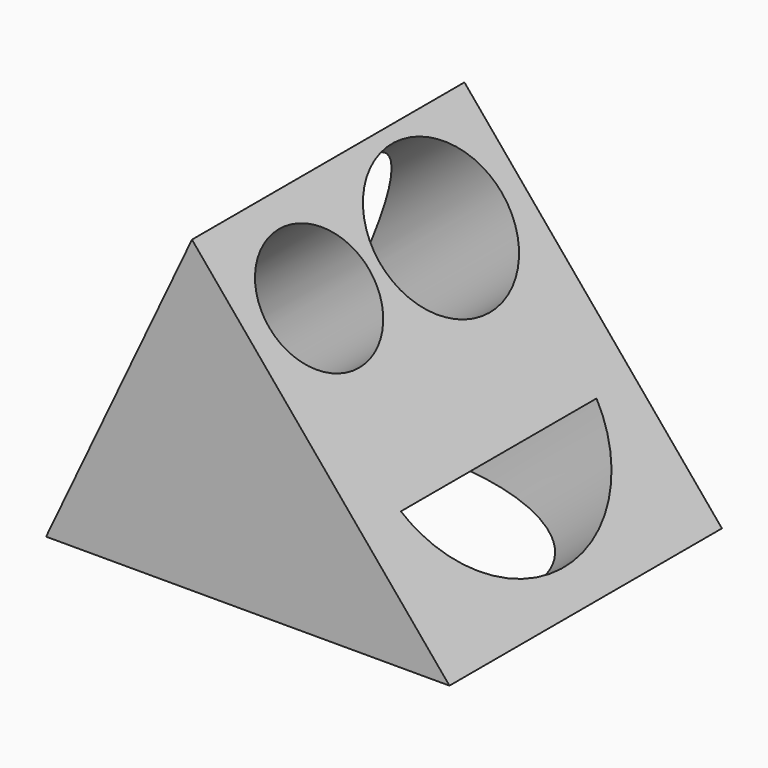
from build123d import *

# Parameters (mm, degrees)
F1_DEPTH = 50.8
F2_R     = 9.334505
F2_R_2   = 11.365304
F3_DEPTH = 25.4


with BuildPart() as f1:
    # F0 (on Front) → F1 (new body)
    with BuildSketch(Plane.XZ):
        Polygon((-60.167521, 0), (0, 0), (-38.404804, 46.08576), align=None)
    extrude(amount=F1_DEPTH)

    # F2 (on face) → F3 (cut)
    with BuildSketch(Plane(origin=(0, 0, 0), x_dir=(0, 1, 0), z_dir=(0.768221, 0, 0.640184))):
        with Locations((-37.764721, 46.659064)):
            Circle(F2_R)
        with Locations((-15.041881, 46.659064)):
            Circle(F2_R_2)
        with BuildLine():
            Line((-7.04088, 20.413337), (-43.525439, 20.413337))
            ThreePointArc((-43.525439, 20.413337), (-25.283159, 5.273026), (-7.04088, 20.413337))
        make_face()
    extrude(amount=-F3_DEPTH, mode=Mode.SUBTRACT)


solid = f1.part
